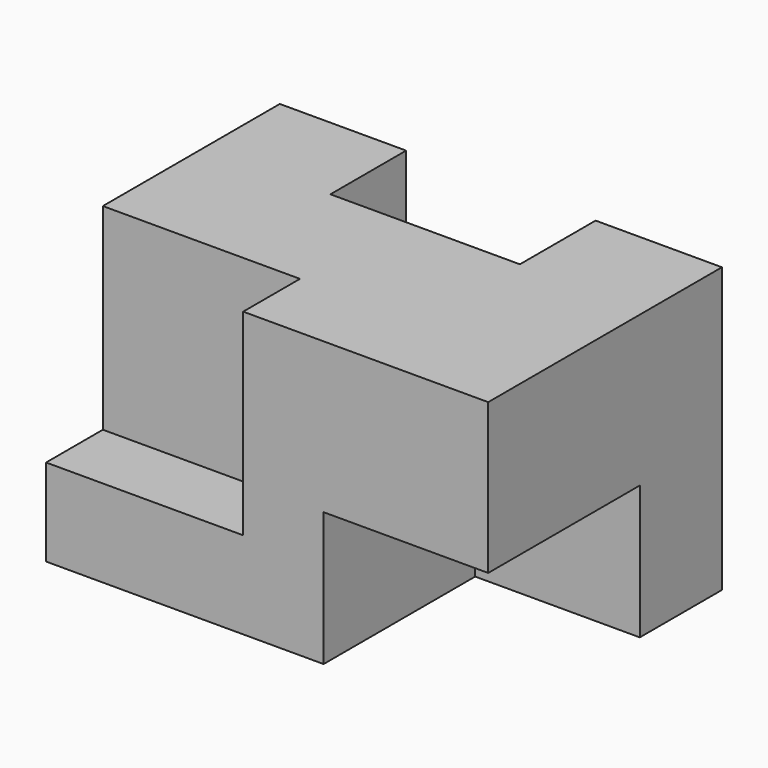
from build123d import *

# Parameters (mm, degrees)
F1_DEPTH = 35.9918
F2_W     = 24.9682
F2_H     = 8.9916
F3_DEPTH = 24.9428
F4_W     = 20.8534
F4_H     = 16.9418
F5_DEPTH = 24.003


with BuildPart() as f1:
    # F0 (on Top) → F1 (new body)
    with BuildSketch(Plane.XY):
        Polygon((44.856025, 64.72698), (28.854025, 64.72698), (28.854025, 27.71918), (84.861025, 27.71918), (84.861025, 64.72698), (68.859025, 64.72698), (68.859025, 52.73818), (44.856025, 52.73818), align=None)
    extrude(amount=F1_DEPTH)

    # F2 (on face) → F3 (cut)
    with BuildSketch(Plane.XY.offset(35.9918)):
        with Locations((41.338125, 32.21498)):
            Rectangle(F2_W, F2_H)
    extrude(amount=-F3_DEPTH, mode=Mode.SUBTRACT)

    # F4 (on face) → F5 (cut)
    with BuildSketch(Plane.XZ.offset(-27.71918)):
        with Locations((74.434325, 8.4709)):
            Rectangle(F4_W, F4_H)
    extrude(amount=-F5_DEPTH, mode=Mode.SUBTRACT)


solid = f1.part
